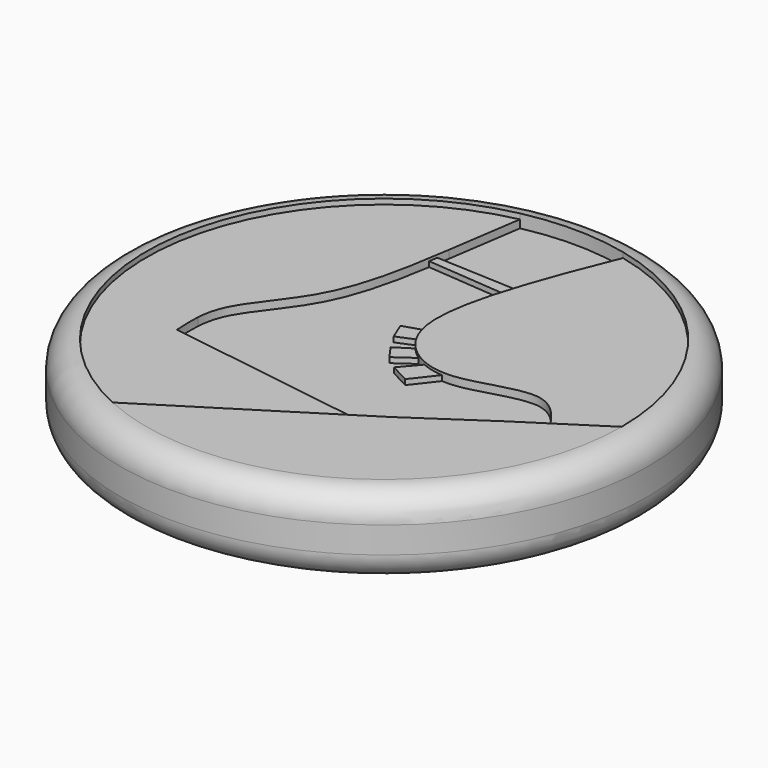
from build123d import *

# Parameters (mm, degrees)
F0_R      = 10
F1_DEPTH  = 3
F2_R      = 1
F4_DEPTH  = 0.5
F5_DEPTH  = 0.5
F7_DEPTH  = 0.2
F8_DEPTH  = 0.2
F10_DEPTH = 0.2


with BuildPart() as f1:
    # F0 (on Top) → F1 (new body)
    with BuildSketch(Plane.XY):
        Circle(F0_R)
    extrude(amount=F1_DEPTH)

    # F2
    f2_edges = [f1.edges().sort_by_distance(p)[0] for p in [
        (-10, 0, 3),
        (-10, 0, 0),
    ]]
    fillet(f2_edges, radius=F2_R)

    # F3 (on face) → F4 (cut)
    with BuildSketch(Plane.XY.offset(3)):
        with BuildLine():
            Line((2.6188242033, -3.3776305377), (6.8794322408, -0.6989099297))
            add(Edge.make_bspline(
                [(2.0379616312, 8.7662256639), (1.6297293118, 7.760927147), (0.7947254097, 5.7046759771), (-0.2158731788, 1.9761788849), (0.9164418768, 0.0642277289), (2.929304388, -0.6172304518), (5.6350925737, 0.7468103985), (6.5537268756, -0.2412183766), (6.8794322408, -0.6989099297)],
                knots=[0, 0, 0, 0, 0.1908238507, 0.3903136826, 0.5337501788, 0.6776846025, 0.8516922871, 0.9633032231, 0.9633032231, 0.9633032231, 0.9633032231], degree=3))
            ThreePointArc((2.0379616312, 8.7662256639), (0.0759866512, 8.9996792181), (-1.8896505536, 8.7993875233))
            Line((-1.8896505536, 8.7993875233), (-2.3143994622, 5.9643280692))
            add(Edge.make_bspline(
                [(-2.3143994622, 5.9643280692), (-2.5209566799, 4.5856267279), (-2.998613389, 1.3974263723), (-5.1744957464, -0.6070257438), (-5.3903894892, -1.7340637252), (-5.4123916936, -2.0398823468)],
                knots=[0.2414805871, 0.2414805871, 0.2414805871, 0.2414805871, 0.5458400785, 0.8012843993, 0.8955104519, 0.8955104519, 0.8955104519, 0.8955104519], degree=3))
            Line((-5.4123916936, -2.0398823468), (2.6188242033, -3.3776305377))
        make_face()
    extrude(amount=-F4_DEPTH, mode=Mode.SUBTRACT)

    # F3 (on face) → F5 (cut)
    with BuildSketch(Plane.XY.offset(3)):
        with BuildLine():
            Line((3.2604557928, -3.7864416372), (6.0787242837, -1.8852878129))
            Line((6.0787242837, -1.8852878129), (7.1935072074, -1.1658464236))
            add(Edge.make_bspline(
                [(6.8794322408, -0.6989099297), (6.9865215417, -0.8493952261), (7.0900143745, -1.0076208248), (7.1935072074, -1.1658464236)],
                knots=[0.9633032231, 0.9633032231, 0.9633032231, 0.9633032231, 1, 1, 1, 1], degree=3))
            Line((6.8794322408, -0.6989099297), (2.6188242033, -3.3776305377))
            Line((2.6188242033, -3.3776305377), (-5.4123916936, -2.0398823468))
            add(Edge.make_bspline(
                [(-5.4123916936, -2.0398823468), (-5.4367904701, -2.3790120105), (-5.4167044889, -2.720741879), (-5.3966185078, -3.0624717474)],
                knots=[0.8955104519, 0.8955104519, 0.8955104519, 0.8955104519, 1, 1, 1, 1], degree=3))
            Line((-5.3966185078, -3.0624717474), (2.5323872936, -4.2450306214))
            Line((2.5323872936, -4.2450306214), (3.2604557928, -3.7864416372))
        make_face()
    extrude(amount=-F5_DEPTH, mode=Mode.SUBTRACT)

    # F6 (on face) → F7 (join)
    with BuildSketch(Plane.XY.offset(2.5)):
        with BuildLine():
            add(Edge.make_bspline(
                [(-2.3842653189, 5.5020927108), (-2.400709991, 5.3951104015), (-2.4176575323, 5.2866589487), (-2.4352520085, 5.1770578662)],
                knots=[0.2746404016, 0.2746404016, 0.2746404016, 0.2746404016, 0.2971489273, 0.2971489273, 0.2971489273, 0.2971489273], degree=3))
            Line((-2.4352520085, 5.1770578662), (0.625273791, 4.9229885711))
            add(Edge.make_bspline(
                [(0.760314553, 5.3573187551), (0.7143347288, 5.2141615037), (0.6690819594, 5.0691118902), (0.625273791, 4.9229885711)],
                knots=[0.2034219896, 0.2034219896, 0.2034219896, 0.2034219896, 0.2264819887, 0.2264819887, 0.2264819887, 0.2264819887], degree=3))
            Line((0.760314553, 5.3573187551), (-2.3842653189, 5.5020927108))
        make_face()
    extrude(amount=F7_DEPTH)

    # F3 (on face) → F8 (cut)
    with BuildSketch(Plane.XY.offset(3)):
        with BuildLine():
            Line((-3.7310567152, -8.1901902169), (2.5323872936, -4.2450306214))
            Line((2.5323872936, -4.2450306214), (-5.3966185078, -3.0624717474))
            add(Edge.make_bspline(
                [(-5.4123916936, -2.0398823468), (-5.4367904701, -2.3790120105), (-5.4167044889, -2.720741879), (-5.3966185078, -3.0624717474)],
                knots=[0.8955104519, 0.8955104519, 0.8955104519, 0.8955104519, 1, 1, 1, 1], degree=3))
            add(Edge.make_bspline(
                [(-2.3143994622, 5.9643280692), (-2.5209566799, 4.5856267279), (-2.998613389, 1.3974263723), (-5.1744957464, -0.6070257438), (-5.3903894892, -1.7340637252), (-5.4123916936, -2.0398823468)],
                knots=[0.2414805871, 0.2414805871, 0.2414805871, 0.2414805871, 0.5458400785, 0.8012843993, 0.8955104519, 0.8955104519, 0.8955104519, 0.8955104519], degree=3))
            Line((-2.3143994622, 5.9643280692), (-1.8896505536, 8.7993875233))
            ThreePointArc((-1.8896505536, 8.7993875233), (-8.9475988677, 0.9697806466), (-3.7310567152, -8.1901902169))
        make_face()
        with BuildLine():
            add(Edge.make_bspline(
                [(6.8794322408, -0.6989099297), (6.9865215417, -0.8493952261), (7.0900143745, -1.0076208248), (7.1935072074, -1.1658464236)],
                knots=[0.9633032231, 0.9633032231, 0.9633032231, 0.9633032231, 1, 1, 1, 1], degree=3))
            Line((7.1935072074, -1.1658464236), (9, 0))
            ThreePointArc((9, 0), (7.0477533541, 5.5972468822), (2.0379616312, 8.7662256639))
            add(Edge.make_bspline(
                [(2.0379616312, 8.7662256639), (1.6297293118, 7.760927147), (0.7947254097, 5.7046759771), (-0.2158731788, 1.9761788849), (0.9164418768, 0.0642277289), (2.929304388, -0.6172304518), (5.6350925737, 0.7468103985), (6.5537268756, -0.2412183766), (6.8794322408, -0.6989099297)],
                knots=[0, 0, 0, 0, 0.1908238507, 0.3903136826, 0.5337501788, 0.6776846025, 0.8516922871, 0.9633032231, 0.9633032231, 0.9633032231, 0.9633032231], degree=3))
        make_face()
    extrude(amount=-F8_DEPTH, mode=Mode.SUBTRACT)

    # F9 (on face) → F10 (join)
    with BuildSketch(Plane.XY.offset(2.5)):
        Polygon((0.4235866599, 1.0353629961), (0.2137521335, 1.6472745719), (-0.5133344134, 1.4130915244), (-0.2446945873, 0.7603343111), align=None)
        Polygon((1.1939833379, 0.1412997616), (0.7390651665, 0.5554548462), (0.1189987625, 0.1596583386), (0.4858149623, -0.3592776484), align=None)
        Polygon((2.4212828624, -0.2853942997), (1.5963621816, -0.0867172381), (1.0029768368, -0.780917181), (1.7334064469, -1.1658464236), align=None)
    extrude(amount=F10_DEPTH)


solid = f1.part
